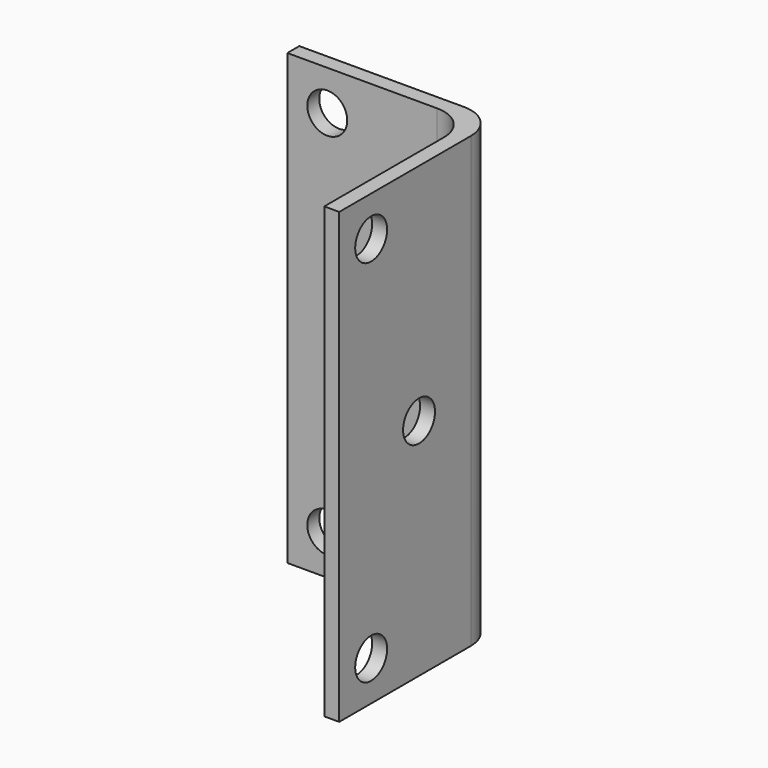
from build123d import *

# Parameters (mm, degrees)
F1_DEPTH = 45
F2_R     = 7
F3_R     = 4
F4_DEPTH = 3.001
F5_R     = 4
F6_DEPTH = 3.001


with BuildPart() as f1:
    # F0 (on Top) → F1 (new body, symmetric)
    with BuildSketch(Plane.XY):
        Polygon((0, -40), (0, 0), (-40, 0), (-40, -3), (-3, -3), (-3, -40), align=None)
    extrude(amount=F1_DEPTH, both=True)

    # F2
    f2_edges = [f1.edges().sort_by_distance(p)[0] for p in [
        (-3, -3, 0),
        (0, 0, 0),
    ]]
    fillet(f2_edges, radius=F2_R)

    # F3 (on face) → F4 (cut, through all)
    with BuildSketch(Plane.XZ.offset(3)):
        with Locations((-32, 37)):
            Circle(F3_R)
        with Locations((-20, 0)):
            Circle(F3_R)
        with Locations((-32, -37)):
            Circle(F3_R)
    extrude(amount=-F4_DEPTH, mode=Mode.SUBTRACT)

    # F5 (on face) → F6 (cut, through all)
    with BuildSketch(Plane(origin=(-3, 0, 0), x_dir=(0, -1, 0), z_dir=(-1, 0, 0))):
        with Locations((32, 37)):
            Circle(F5_R)
        with Locations((20, 0)):
            Circle(F5_R)
        with Locations((32, -37)):
            Circle(F5_R)
    extrude(amount=-F6_DEPTH, mode=Mode.SUBTRACT)


solid = f1.part
